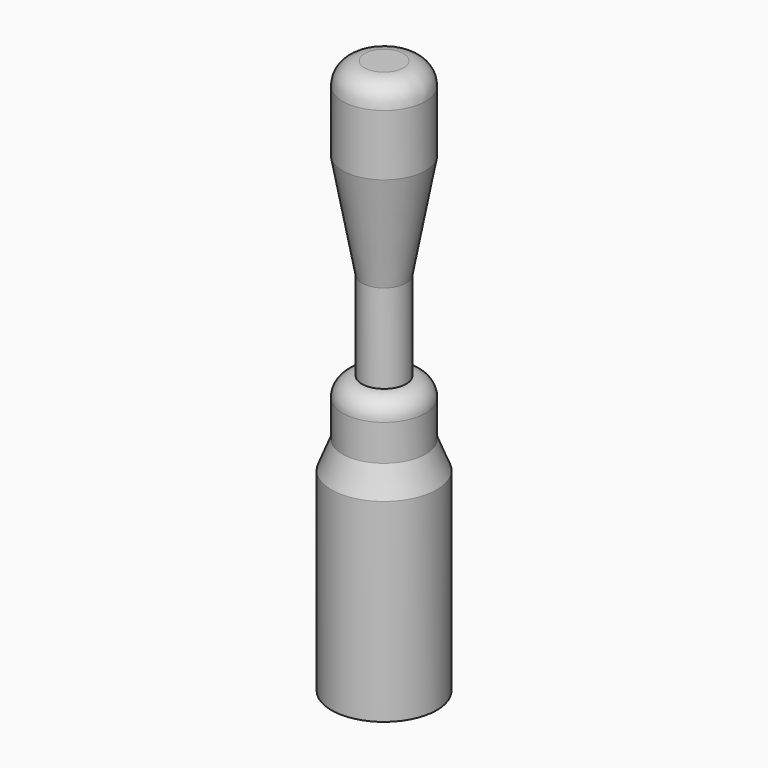
from build123d import *


with BuildPart() as f1:
    # F0 (on Front) → F1 (revolve)
    with BuildSketch(Plane.XZ):
        with BuildLine():
            Line((3.5, 0), (0, 0))
            Line((0, 0), (0, -100))
            Line((0, -100), (9.5, -100))
            Line((9.5, -100), (9.5, -65))
            Line((9.5, -65), (7.5, -60))
            Line((7.5, -60), (7.5, -53.5))
            ThreePointArc((7.5, -53.5), (6.474874, -51.025126), (4, -50))
            Line((4, -50), (4, -34))
            Line((4, -34), (7.5, -15))
            Line((7.5, -15), (7.5, -4))
            ThreePointArc((7.5, -4), (6.328427, -1.171573), (3.5, 0))
        make_face()
    revolve(axis=Axis((0, 0, -50), (0, 0, -1)))


solid = f1.part
